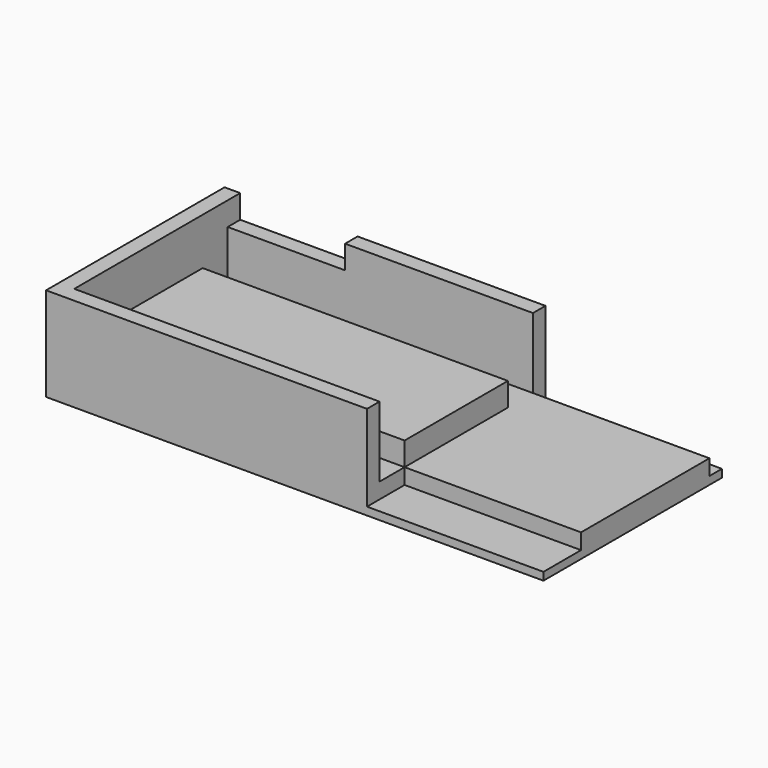
from build123d import *

# Parameters (mm, degrees)
F0_W     = 39
F0_H     = 4
F0_W_2   = 2.54
F0_H_2   = 20.5
F1_DEPTH = 3
F0_H_3   = 16.5
F2_DEPTH = 6
F0_W_3   = 15
F0_H_4   = 2
F3_DEPTH = 9
F0_W_4   = 24
F4_DEPTH = 12
F5_DEPTH = 1


with BuildPart() as f1:
    # F0 (on Top) → F1 (new body)
    with BuildSketch(Plane.XY):
        Polygon((61, 26.5), (41, 26.5), (41, 22.5), (41, 6), (61, 6), align=None)
        Polygon((17, 26.5), (2, 26.5), (2, 22.5), (41, 22.5), (41, 26.5), align=None)
        with Locations((21.5, 4)):
            Rectangle(F0_W, F0_H)
        with Locations((62.27, 16.25)):
            Rectangle(F0_W_2, F0_H_2)
    extrude(amount=F1_DEPTH)

    # F0 (on Top) → F3 (join)
    with BuildSketch(Plane.XY):
        with Locations((9.5, 27.5)):
            Rectangle(F0_W_3, F0_H_4)
    extrude(amount=F3_DEPTH)



with BuildPart() as f2:
    # F0 (on Top) → F2 (new body)
    with BuildSketch(Plane.XY):
        with Locations((21.5, 14.25)):
            Rectangle(F0_W, F0_H_3)
    extrude(amount=F2_DEPTH)


with BuildPart() as f4:
    # F0 (on Top) → F4 (new body)
    with BuildSketch(Plane.XY):
        with Locations((29, 27.5)):
            Rectangle(F0_W_4, F0_H_4)
        Polygon((2, 22.5), (2, 26.5), (2, 28.5), (0, 28.5), (0, 2), (2, 2), (2, 6), align=None)
        Polygon((41, 2), (2, 2), (0, 2), (0, 0), (41, 0), align=None)
    extrude(amount=F4_DEPTH)


with BuildPart() as f1_1:
    add(f1.part)

    add(f2.part)  # F5 merges F2

    add(f4.part)  # F5 merges F4
    # F0 (on Top) → F5 (join)
    with BuildSketch(Plane.XY):
        Polygon((41, 28.5), (41, 26.5), (61, 26.5), (63.54, 26.5), (63.54, 28.5), align=None)
        Polygon((61, 6), (41, 6), (41, 2), (41, 0), (63.54, 0), (63.54, 6), align=None)
    extrude(amount=F5_DEPTH)


solid = f1_1.part
